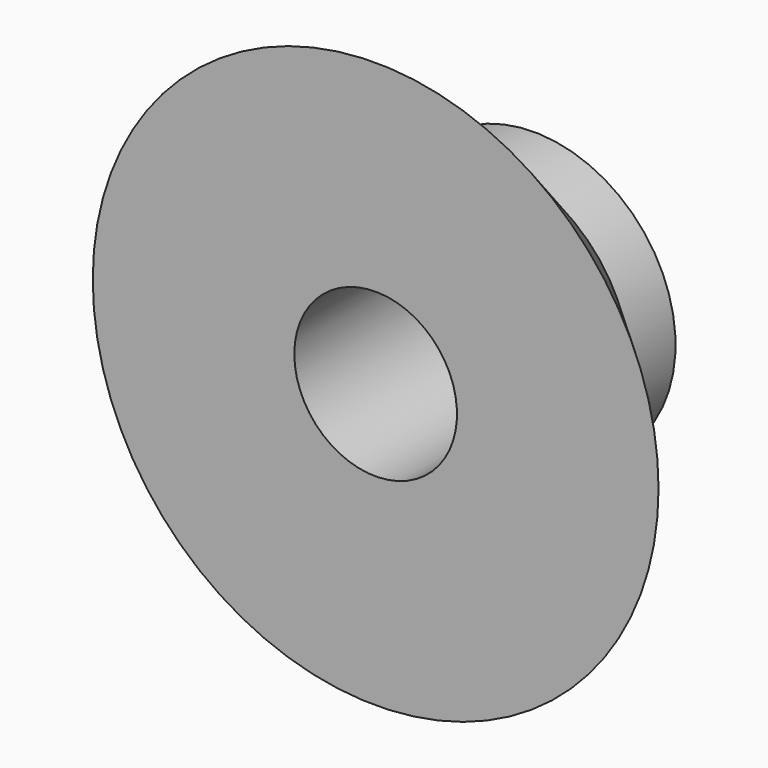
from build123d import *


with BuildPart() as part:
    # Sketch → Revolution (revolve)
    with BuildSketch(Plane.XY):
        Polygon((-2.875, 0), (-10, 0), (-5, 5), (-5, 7), (-2.875, 7), align=None)
    revolve(axis=Axis((0, 0, 0), (0, 1, 0)))


solid = part.part
